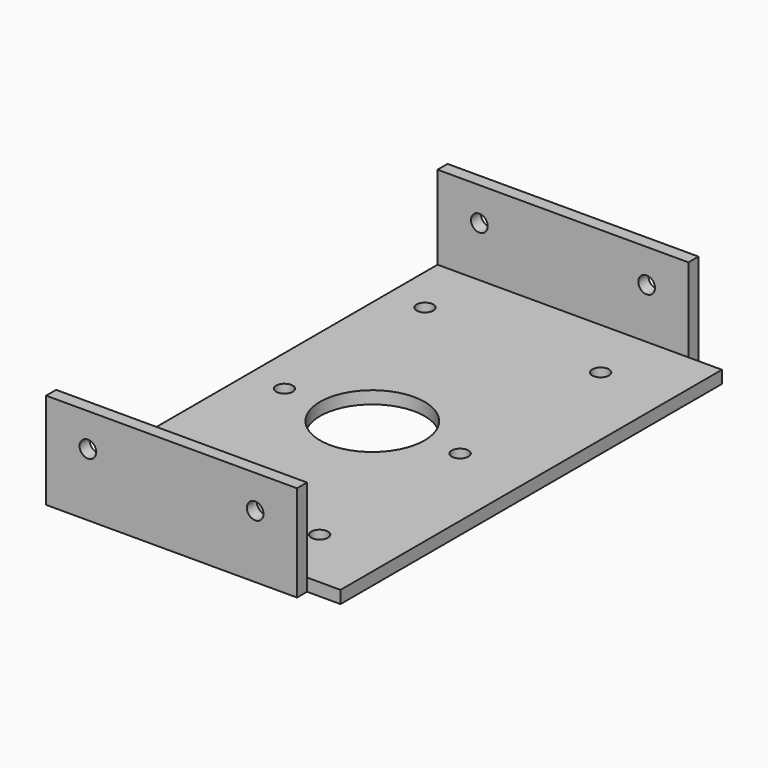
from build123d import *

# Parameters (mm, degrees)
F0_W     = 30
F0_H     = 60
F0_R     = 1
F0_R_2   = 6.25
F1_DEPTH = 1.5
F2_W     = 30
F2_H     = 1.5
F3_DEPTH = 10
F4_R     = 1
F5_DEPTH = 60.001
F6_W     = 57
F6_H     = 1.5
F7_DEPTH = 4


with BuildPart() as f1:
    # F0 (on Top) → F1 (new body)
    with BuildSketch(Plane.XY):
        with Locations((0, 10)):
            Rectangle(F0_W, F0_H)
        with Locations((-10.5, -11)):
            Circle(F0_R, mode=Mode.SUBTRACT)
        with Locations((10.5, -11)):
            Circle(F0_R, mode=Mode.SUBTRACT)
        with Locations((-10.5, 10)):
            Circle(F0_R, mode=Mode.SUBTRACT)
        with Locations((-10.5, 31)):
            Circle(F0_R, mode=Mode.SUBTRACT)
        with Locations((0, 10)):
            Circle(F0_R_2, mode=Mode.SUBTRACT)
        with Locations((10.5, 10)):
            Circle(F0_R, mode=Mode.SUBTRACT)
        with Locations((10.5, 31)):
            Circle(F0_R, mode=Mode.SUBTRACT)
    extrude(amount=F1_DEPTH)

    # F2 (on face) → F3 (join)
    with BuildSketch(Plane.XY.offset(1.5)):
        with Locations((0, 39.25)):
            Rectangle(F2_W, F2_H)
        with Locations((0, -19.25)):
            Rectangle(F2_W, F2_H)
    extrude(amount=F3_DEPTH)

    # F4 (on face) → F5 (cut, through all)
    with BuildSketch(Plane(origin=(0, 40, 0), x_dir=(-1, 0, 0), z_dir=(0, 1, 0))):
        with Locations((-10, 7.5)):
            Circle(F4_R)
        with Locations((10, 7.5)):
            Circle(F4_R)
    extrude(amount=-F5_DEPTH, mode=Mode.SUBTRACT)

    # F6 (on face) → F7 (join)
    with BuildSketch(Plane.YZ.offset(15)):
        with Locations((10, 0.75)):
            Rectangle(F6_W, F6_H)
    extrude(amount=F7_DEPTH)


solid = f1.part
